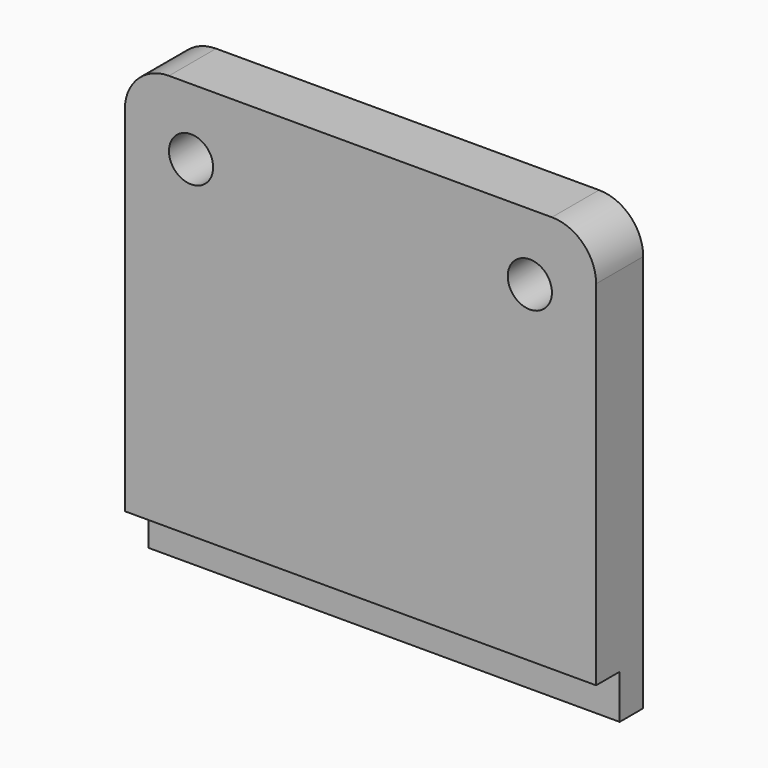
from build123d import *

# Parameters (mm, degrees)
F0_W     = 32
F0_H     = 30
F1_DEPTH = 2
F2_W     = 32
F2_H     = 27
F3_DEPTH = 2
F4_R     = 1.5
F5_DEPTH = 4.001
F6_R     = 3


with BuildPart() as f1:
    # F0 (on Front) → F1 (new body)
    with BuildSketch(Plane.XZ):
        Rectangle(F0_W, F0_H)
    extrude(amount=-F1_DEPTH)

    # F2 (on face) → F3 (join)
    with BuildSketch(Plane.XZ):
        with Locations((0, 1.5)):
            Rectangle(F2_W, F2_H)
    extrude(amount=F3_DEPTH)

    # F4 (on face) → F5 (cut, through all)
    with BuildSketch(Plane.XZ.offset(2)):
        with Locations((-11.5, 10.5)):
            Circle(F4_R)
        with Locations((11.5, 10.5)):
            Circle(F4_R)
    extrude(amount=-F5_DEPTH, mode=Mode.SUBTRACT)

    # F6
    f6_edges = [f1.edges().sort_by_distance(p)[0] for p in [
        (-16, 0, 15),
        (16, 0, 15),
    ]]
    fillet(f6_edges, radius=F6_R)


solid = f1.part
